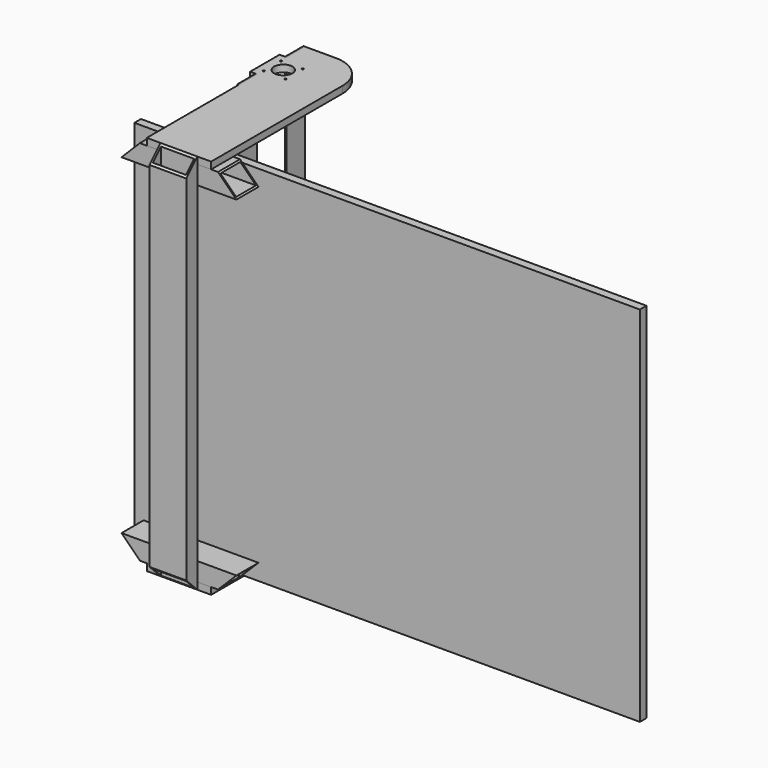
from build123d import *

# Parameters (mm, degrees)
F0_R      = 2
F0_R_2    = 20
F1_DEPTH  = 15
F2_W      = 250
F2_H      = 60
F3_DEPTH  = 40
F4_W      = 54
F4_H      = 34
F5_DEPTH  = 250
F7_DEPTH  = 60
F8_W      = 80
F8_H      = 830
F9_DEPTH  = 30
F10_W     = 72
F10_H     = 22
F11_DEPTH = 830
F13_DEPTH = 80
F16_W     = 50
F16_H     = 830
F17_DEPTH = 3
F19_W     = 1100
F19_H     = 790
F20_DEPTH = 18


with BuildPart() as f1:
    # F0 (on Top) → F1 (new body)
    with BuildSketch(Plane.XY):
        with BuildLine():
            Line((0, 300), (0, 0))
            Line((0, 0), (140, 0))
            Line((140, 0), (140, 357.588364))
            ThreePointArc((140, 357.588364), (118.791123, 408.791123), (67.588364, 430))
            Line((67.588364, 430), (0, 430))
            Line((0, 430), (0, 380))
            Line((0, 380), (-15, 380))
            Line((-15, 380), (-15, 300))
            Line((-15, 300), (0, 300))
        make_face()
        with Locations((1.43, 316.43)):
            Circle(F0_R, mode=Mode.SUBTRACT)
        with Locations((48.57, 316.43)):
            Circle(F0_R, mode=Mode.SUBTRACT)
        with Locations((1.43, 363.57)):
            Circle(F0_R, mode=Mode.SUBTRACT)
        with Locations((25, 340)):
            Circle(F0_R_2, mode=Mode.SUBTRACT)
        with Locations((48.57, 363.57)):
            Circle(F0_R, mode=Mode.SUBTRACT)
    extrude(amount=F1_DEPTH)


with BuildPart() as f3:
    # F2 (on Top) → F3 (new body)
    with BuildSketch(Plane.XY):
        with Locations((70, 30)):
            Rectangle(F2_W, F2_H)
    extrude(amount=-F3_DEPTH)

    # F4 (on face) → F5 (cut, through all)
    with BuildSketch(Plane(origin=(-55, 0, 0), x_dir=(0, -1, 0), z_dir=(-1, 0, 0))):
        with Locations((-30, -20)):
            Rectangle(F4_W, F4_H)
    extrude(amount=-F5_DEPTH, mode=Mode.SUBTRACT)

    # F6 (on face) → F7 (cut)
    with BuildSketch(Plane(origin=(0, 60, 0), x_dir=(-1, 0, 0), z_dir=(0, 1, 0))):
        Polygon((-195, 0), (-195, -40), (-155, 0), align=None)
        Polygon((15, 0), (55, -40), (55, 0), align=None)
    extrude(amount=-F7_DEPTH, mode=Mode.SUBTRACT)


with BuildPart() as f9:
    # F8 (on Front) → F9 (new body)
    with BuildSketch(Plane.XZ):
        with Locations((70, -400)):
            Rectangle(F8_W, F8_H)
    extrude(amount=F9_DEPTH)

    # F10 (on face) → F11 (cut, through all)
    with BuildSketch(Plane.XY.offset(15)):
        with Locations((70, -15)):
            Rectangle(F10_W, F10_H)
    extrude(amount=-F11_DEPTH, mode=Mode.SUBTRACT)

    # F12 (on face) → F13 (cut)
    with BuildSketch(Plane.YZ.offset(110)):
        Polygon((-30, 15), (-30, -15), (0, 15), align=None)
        Polygon((0, -815), (-30, -785), (-30, -815), align=None)
    extrude(amount=-F13_DEPTH, mode=Mode.SUBTRACT)


with BuildPart() as f15_1:
    # F15: instance of F3
    add(f3.part.mirror(Plane.XY.offset(-400)))


with BuildPart() as f15_2:
    # F15: instance of F1
    add(f1.part.mirror(Plane.XY.offset(-400)))


with BuildPart() as f17:
    # F16 (on face) → F17 (new body)
    with BuildSketch(Plane(origin=(0, 0, 0), x_dir=(0, -1, 0), z_dir=(-1, 0, 0))):
        with Locations((-405, -400)):
            Rectangle(F16_W, F16_H)
        with Locations((-275, -400)):
            Rectangle(F16_W, F16_H)
    extrude(amount=F17_DEPTH)


with BuildPart() as f20:
    # F19 (on offset) → F20 (new body)
    with BuildSketch(Plane.XZ.offset(-60)):
        with Locations((475, -400)):
            Rectangle(F19_W, F19_H)
    extrude(amount=-F20_DEPTH)


solid = Compound([f1.part, f3.part, f9.part, f15_1.part, f15_2.part, f17.part, f20.part])
